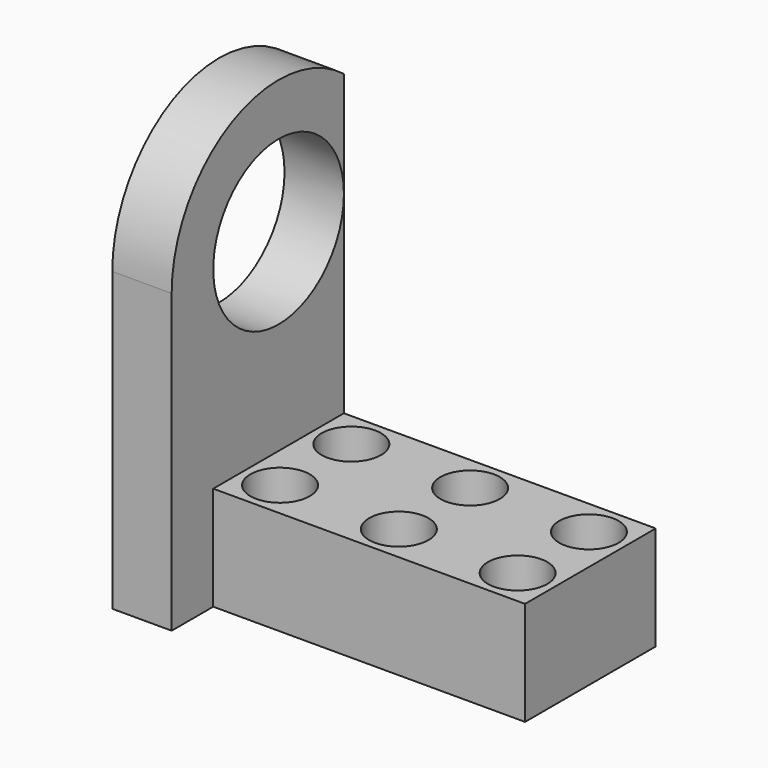
from build123d import *

# Parameters (mm, degrees)
SKETCH003_R      = 1
EXTRUDE002_DEPTH = 4
SKETCH002_R      = 1
EXTRUDE003_DEPTH = 4
SKETCH001_R      = 1
EXTRUDE001_DEPTH = 4
SKETCH_W         = 10.5
SKETCH_H         = 5.5
EXTRUDE_DEPTH    = 3.5
SKETCH006_R      = 2.75
EXTRUDE006_DEPTH = 5
EXTRUDE005_DEPTH = 15
EXTRUDE004_DEPTH = 2


with BuildPart() as extrude002:
    # Sketch003 → Extrude002 (new body)
    with BuildSketch(Plane(origin=(8.25, 0.25, 0), x_dir=(1, 0, 0), z_dir=(0, 0, 1))):
        with Locations((1, 1)):
            Circle(SKETCH003_R)
        with Locations((1, 4)):
            Circle(SKETCH003_R)
    extrude(amount=EXTRUDE002_DEPTH)


with BuildPart() as extrude003:
    # Sketch002 → Extrude003 (new body)
    with BuildSketch(Plane(origin=(4.25, 0.25, 0), x_dir=(1, 0, 0), z_dir=(0, 0, 1))):
        with Locations((1, 1)):
            Circle(SKETCH002_R)
        with Locations((1, 4)):
            Circle(SKETCH002_R)
    extrude(amount=EXTRUDE003_DEPTH)


with BuildPart() as fusion:
    # Sketch001 → Extrude001 (new body)
    with BuildSketch(Plane(origin=(0.25, 0.25, 0), x_dir=(1, 0, 0), z_dir=(0, 0, 1))):
        with Locations((1, 1)):
            Circle(SKETCH001_R)
        with Locations((1, 4)):
            Circle(SKETCH001_R)
    extrude(amount=EXTRUDE001_DEPTH)

    # Fusion: union Extrude002, Extrude003
    add(extrude002.part)
    add(extrude003.part)


with BuildPart() as cut:
    # Sketch → Extrude (new body)
    with BuildSketch(Plane.XY):
        with Locations((5.25, 2.75)):
            Rectangle(SKETCH_W, SKETCH_H)
    extrude(amount=EXTRUDE_DEPTH)

    # Cut: cut Fusion
    add(fusion.part, mode=Mode.SUBTRACT)


with BuildPart() as extrude006:
    # Sketch006 → Extrude006 (new body)
    with BuildSketch(Plane.YZ.offset(-2)):
        with Locations((2.75, 10)):
            Circle(SKETCH006_R)
    extrude(amount=EXTRUDE006_DEPTH)


with BuildPart() as extrude005:
    # Sketch005 → Extrude005 (new body)
    with BuildSketch(Plane.XY):
        Polygon((0, 5.5), (-1.75, 7.25), (0, 7.25), align=None)
    extrude(amount=EXTRUDE005_DEPTH)


with BuildPart() as cut002:
    # Sketch004 → Extrude004 (new body)
    with BuildSketch(Plane.YZ.offset(-2)):
        with BuildLine():
            Line((-1.75, 0), (7.25, 0))
            Line((7.25, 0), (7.25, 10))
            ThreePointArc((7.25, 10), (2.749999, 14.5), (-1.75, 9.999998))
            Line((-1.75, 0), (-1.75, 9.999998))
        make_face()
    extrude(amount=EXTRUDE004_DEPTH)

    # Cut001: cut Extrude005
    add(extrude005.part, mode=Mode.SUBTRACT)

    # Cut002: cut Extrude006
    add(extrude006.part, mode=Mode.SUBTRACT)


solid = Compound([cut.part, cut002.part])
